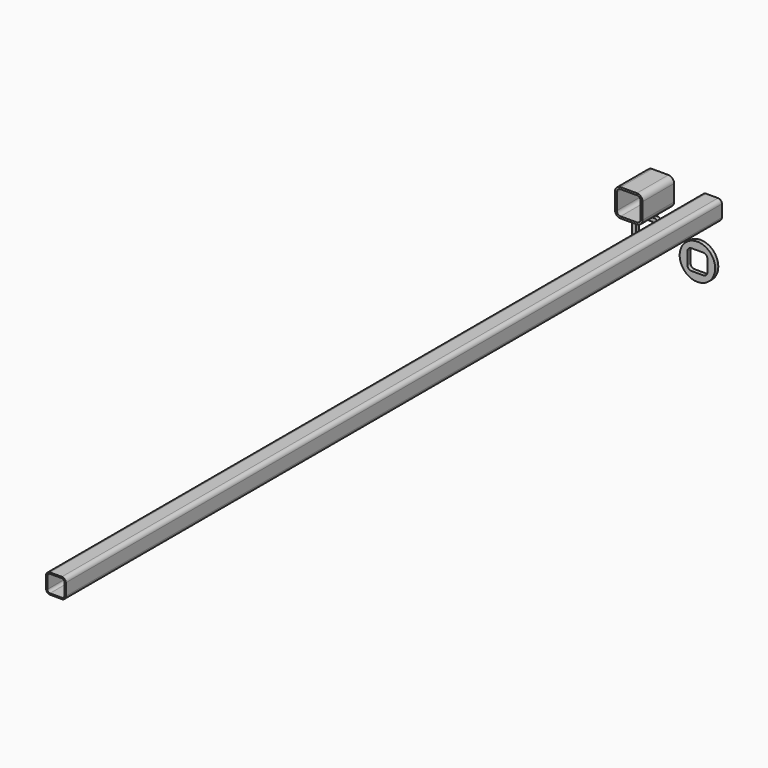
from build123d import *

# Parameters (mm, degrees)
F1_DEPTH = 63.5
F3_DEPTH = 1320.8
F5_DEPTH = 6.35
F6_R     = 28.575
F7_DEPTH = 6.35


with BuildPart() as f1:
    # F0 (on Front) → F1 (new body)
    with BuildSketch(Plane.XZ):
        with BuildLine():
            Line((-36.532738, 67.521737), (-62.694738, 67.521737))
            ThreePointArc((-62.694738, 67.521737), (-69.160523, 64.843521), (-71.838738, 58.377737))
            Line((-71.838738, 58.377737), (-71.838738, 32.215737))
            ThreePointArc((-71.838738, 32.215737), (-69.160523, 25.749953), (-62.694738, 23.071737))
            Line((-62.694738, 23.071737), (-36.532738, 23.071737))
            ThreePointArc((-36.532738, 23.071737), (-30.066954, 25.749953), (-27.388738, 32.215737))
            Line((-27.388738, 32.215737), (-27.388738, 58.377737))
            ThreePointArc((-27.388738, 58.377737), (-30.066954, 64.843521), (-36.532738, 67.521737))
        make_face()
        with BuildLine():
            ThreePointArc((-68.790738, 58.377737), (-67.005261, 62.68826), (-62.694738, 64.473737))
            Line((-62.694738, 64.473737), (-36.532738, 64.473737))
            ThreePointArc((-36.532738, 64.473737), (-32.222215, 62.68826), (-30.436738, 58.377737))
            Line((-30.436738, 58.377737), (-30.436738, 32.215737))
            ThreePointArc((-30.436738, 32.215737), (-32.222215, 27.905214), (-36.532738, 26.119737))
            Line((-36.532738, 26.119737), (-62.694738, 26.119737))
            ThreePointArc((-62.694738, 26.119737), (-67.005261, 27.905214), (-68.790738, 32.215737))
            Line((-68.790738, 32.215737), (-68.790738, 58.377737))
        make_face(mode=Mode.SUBTRACT)
    extrude(amount=F1_DEPTH)


with BuildPart() as f3:
    # F2 (on Front) → F3 (new body)
    with BuildSketch(Plane.XZ):
        with BuildLine():
            Line((43.298324, 60.706825), (24.197524, 60.706825))
            ThreePointArc((24.197524, 60.706825), (19.725356, 58.854393), (17.872924, 54.382225))
            Line((17.872924, 54.382225), (17.872924, 35.281425))
            ThreePointArc((17.872924, 35.281425), (19.725356, 30.809258), (24.197524, 28.956825))
            Line((24.197524, 28.956825), (43.298324, 28.956825))
            ThreePointArc((43.298324, 28.956825), (47.770491, 30.809258), (49.622924, 35.281425))
            Line((49.622924, 35.281425), (49.622924, 54.382225))
            ThreePointArc((49.622924, 54.382225), (47.770491, 58.854393), (43.298324, 60.706825))
        make_face()
        with BuildLine():
            ThreePointArc((19.981124, 54.382225), (21.216079, 57.36367), (24.197524, 58.598625))
            Line((24.197524, 58.598625), (43.298324, 58.598625))
            ThreePointArc((43.298324, 58.598625), (46.279769, 57.36367), (47.514724, 54.382225))
            Line((47.514724, 54.382225), (47.514724, 35.281425))
            ThreePointArc((47.514724, 35.281425), (46.279769, 32.29998), (43.298324, 31.065025))
            Line((43.298324, 31.065025), (24.197524, 31.065025))
            ThreePointArc((24.197524, 31.065025), (21.216079, 32.29998), (19.981124, 35.281425))
            Line((19.981124, 35.281425), (19.981124, 54.382225))
        make_face(mode=Mode.SUBTRACT)
    extrude(amount=F3_DEPTH)


with BuildPart() as f5:
    # F4 (on Front) → F5 (new body)
    with BuildSketch(Plane.XZ):
        with BuildLine():
            Line((-54.473966, 3.071115), (-80.635966, 3.071115))
            ThreePointArc((-80.635966, 3.071115), (-87.10175, 0.392899), (-89.779966, -6.072885))
            Line((-89.779966, -6.072885), (-89.779966, -32.234885))
            ThreePointArc((-89.779966, -32.234885), (-87.10175, -38.70067), (-80.635966, -41.378885))
            Line((-80.635966, -41.378885), (-54.473966, -41.378885))
            ThreePointArc((-54.473966, -41.378885), (-48.008181, -38.70067), (-45.329966, -32.234885))
            Line((-45.329966, -32.234885), (-45.329966, -6.072885))
            ThreePointArc((-45.329966, -6.072885), (-48.008181, 0.392899), (-54.473966, 3.071115))
        make_face()
        with BuildLine():
            ThreePointArc((-83.683966, -9.603485), (-81.757138, -4.951713), (-77.105366, -3.024885))
            Line((-77.105366, -3.024885), (-58.004566, -3.024885))
            ThreePointArc((-58.004566, -3.024885), (-53.352793, -4.951713), (-51.425966, -9.603485))
            Line((-51.425966, -9.603485), (-51.425966, -28.704285))
            ThreePointArc((-51.425966, -28.704285), (-53.352793, -33.356058), (-58.004566, -35.282885))
            Line((-58.004566, -35.282885), (-77.105366, -35.282885))
            ThreePointArc((-77.105366, -35.282885), (-81.757138, -33.356058), (-83.683966, -28.704285))
            Line((-83.683966, -28.704285), (-83.683966, -9.603485))
        make_face(mode=Mode.SUBTRACT)
    extrude(amount=F5_DEPTH)


with BuildPart() as f7:
    # F6 (on Front) → F7 (new body)
    with BuildSketch(Plane.XZ):
        with Locations((15.221031, -36.226293)):
            Circle(F6_R)
        with BuildLine():
            ThreePointArc((-0.907969, -26.675893), (1.018859, -22.02412), (5.670631, -20.097293))
            Line((5.670631, -20.097293), (24.771431, -20.097293))
            ThreePointArc((24.771431, -20.097293), (29.423204, -22.02412), (31.350031, -26.675893))
            Line((31.350031, -26.675893), (31.350031, -45.776693))
            ThreePointArc((31.350031, -45.776693), (29.423204, -50.428465), (24.771431, -52.355293))
            Line((24.771431, -52.355293), (5.670631, -52.355293))
            ThreePointArc((5.670631, -52.355293), (1.018859, -50.428465), (-0.907969, -45.776693))
            Line((-0.907969, -45.776693), (-0.907969, -26.675893))
        make_face(mode=Mode.SUBTRACT)
    extrude(amount=F7_DEPTH)


solid = Compound([f1.part, f3.part, f5.part, f7.part])
